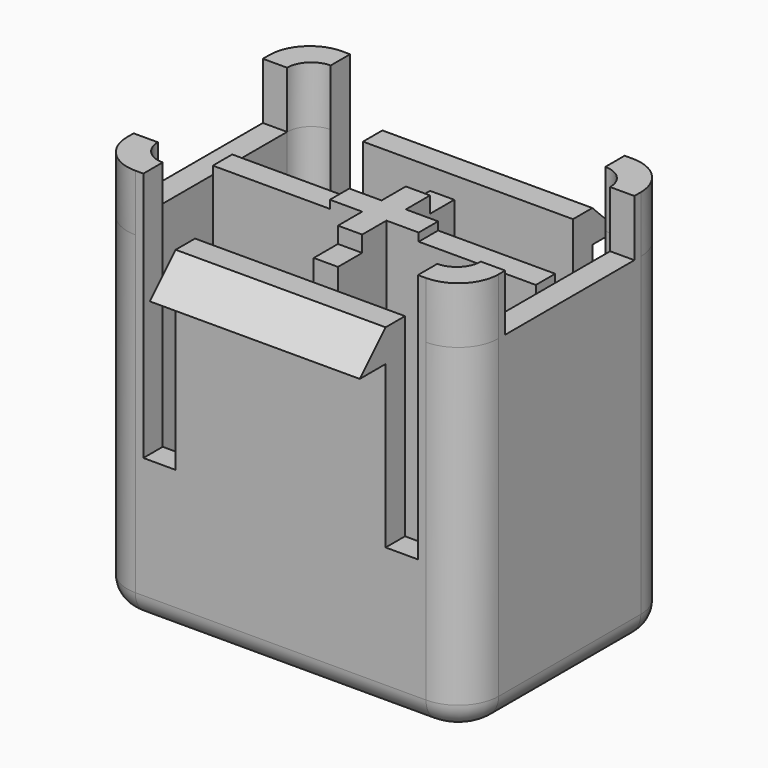
from build123d import *

# Parameters (mm, degrees)
F0_W      = 23
F0_H      = 16
F1_DEPTH  = 21
F2_R      = 2.5
F3_W      = 9.25
F3_H      = 5.75
F4_DEPTH  = 18
F5_R      = 1.5
F6_W      = 2
F6_H      = 12
F7_DEPTH  = 1.5
F8_W      = 2
F8_H      = 12
F9_DEPTH  = 1.5
F10_W     = 2
F10_H     = 12
F11_DEPTH = 1.5
F14_DEPTH = 3.5
F16_DEPTH = 1
F18_W     = 7.25
F18_H     = 1.5
F17_W     = 7.25
F17_H     = 1.5
F19_DEPTH = 0.5
F20_R     = 1.5
F21_DEPTH = 13


with BuildPart() as f1:
    # F0 (on Top) → F1 (new body)
    with BuildSketch(Plane.XY):
        Rectangle(F0_W, F0_H)
    extrude(amount=-F1_DEPTH)

    # F2
    f2_edges = [f1.edges().sort_by_distance(p)[0] for p in [
        (11.5, -8, -10.5),
        (11.5, 8, -10.5),
        (-11.5, -8, -10.5),
        (-11.5, 8, -10.5),
    ]]
    fillet(f2_edges, radius=F2_R)

    # F3 (on face) → F4 (cut)
    with BuildSketch(Plane.XY):
        with Locations((-5.375, 3.625)):
            Rectangle(F3_W, F3_H)
        with Locations((5.375, 3.625)):
            Rectangle(F3_W, F3_H)
        with Locations((5.375, -3.625)):
            Rectangle(F3_W, F3_H)
        with Locations((-5.375, -3.625)):
            Rectangle(F3_W, F3_H)
    extrude(amount=-F4_DEPTH, mode=Mode.SUBTRACT)

    # F5
    f5_edges = [f1.edges().sort_by_distance(p)[0] for p in [
        (-10, 6.5, -9),
        (-10, -6.5, -9),
        (10, -6.5, -9),
        (10, 6.5, -9),
    ]]
    fillet(f5_edges, radius=F5_R)

    # F6 (on face) → F7 (cut, through all)
    with BuildSketch(Plane.YZ.offset(0.75)):
        with Locations((-5.5, -6)):
            Rectangle(F6_W, F6_H)
        with Locations((5.5, -6)):
            Rectangle(F6_W, F6_H)
    extrude(amount=-F7_DEPTH, mode=Mode.SUBTRACT)

    # F8 (on face) + F7_face (on face) → F9 (cut, through all)
    with BuildSketch(Plane(origin=(0, 8, 0), x_dir=(-1, 0, 0), z_dir=(0, 1, 0))):
        with Locations((7.5, -6)):
            Rectangle(F8_W, F8_H)
        with Locations((-7.5, -6)):
            Rectangle(F8_W, F8_H)
    with BuildSketch(Plane(origin=(0, 6.5, -8.8181818182), x_dir=(1, 0, 0), z_dir=(0, -1, 0))):
        Polygon((8.5, 8.8181818182), (-8.5, 8.8181818182), (-8.5, -9.1818181818), (-0.75, -9.1818181818), (-0.75, -3.1818181818), (0.75, -3.1818181818), (0.75, -9.1818181818), (8.5, -9.1818181818), align=None)
    extrude(amount=-F9_DEPTH, dir=(0, 1, 0), mode=Mode.SUBTRACT)

    # F10 (on face) → F11 (cut, through all)
    with BuildSketch(Plane.XZ.offset(8)):
        with Locations((-7.5, -6)):
            Rectangle(F10_W, F10_H)
        with Locations((7.5, -6)):
            Rectangle(F10_W, F10_H)
    extrude(amount=-F11_DEPTH, mode=Mode.SUBTRACT)

    # F13 (on face) → F14 (join)
    with BuildSketch(Plane.XY):
        with BuildLine():
            Line((-11.5, 5), (-10, 5))
            ThreePointArc((-10, 5), (-9.5606601718, 6.0606601718), (-8.5, 6.5))
            Line((-8.5, 6.5), (-8.5, 8))
            Line((-8.5, 8), (-9, 8))
            ThreePointArc((-9, 8), (-10.767766953, 7.267766953), (-11.5, 5.5))
            Line((-11.5, 5.5), (-11.5, 5))
        make_face()
        with BuildLine():
            Line((-10, -5), (-11.5, -5))
            Line((-11.5, -5), (-11.5, -5.5))
            ThreePointArc((-11.5, -5.5), (-10.767766953, -7.267766953), (-9, -8))
            Line((-9, -8), (-8.5, -8))
            Line((-8.5, -8), (-8.5, -6.5))
            ThreePointArc((-8.5, -6.5), (-9.5606601718, -6.0606601718), (-10, -5))
        make_face()
        with BuildLine():
            Line((11.5, -5), (10, -5))
            ThreePointArc((10, -5), (9.5606601718, -6.0606601718), (8.5, -6.5))
            Line((8.5, -6.5), (8.5, -8))
            Line((8.5, -8), (9, -8))
            ThreePointArc((9, -8), (10.767766953, -7.267766953), (11.5, -5.5))
            Line((11.5, -5.5), (11.5, -5))
        make_face()
        with BuildLine():
            ThreePointArc((8.5, 6.5), (9.5606601718, 6.0606601718), (10, 5))
            Line((10, 5), (11.5, 5))
            Line((11.5, 5), (11.5, 5.5))
            ThreePointArc((11.5, 5.5), (10.767766953, 7.267766953), (9, 8))
            Line((9, 8), (8.5, 8))
            Line((8.5, 8), (8.5, 6.5))
        make_face()
    extrude(amount=F14_DEPTH)

    # F15 (on face) → F16 (join)
    with BuildSketch(Plane.XY):
        Polygon((-0.75, 0.75), (-2.75, 0.75), (-2.75, -0.75), (-0.75, -0.75), (-0.75, -2.625), (0.75, -2.625), (0.75, -0.75), (2.75, -0.75), (2.75, 0.75), (0.75, 0.75), (0.75, 2.625), (-0.75, 2.625), align=None)
    extrude(amount=F16_DEPTH)

    # F18 (on face) + F17 (on face) → F19 (join)
    with BuildSketch(Plane.XY):
        with Locations((-6.375, 0)):
            Rectangle(F18_W, F18_H)
    with BuildSketch(Plane.XY):
        with Locations((6.375, 0)):
            Rectangle(F17_W, F17_H)
    extrude(amount=F19_DEPTH)

    # F20
    f20_edges = [f1.edges().sort_by_distance(p)[0] for p in [
        (11.5, 0, -21),
        (10.767767, 7.267767, -21),
        (0, 8, -21),
        (-10.767767, 7.267767, -21),
        (-11.5, 0, -21),
        (-10.767767, -7.267767, -21),
        (0, -8, -21),
        (10.767767, -7.267767, -21),
    ]]
    fillet(f20_edges, radius=F20_R)

    # F12 (on face) → F21 (join, through all)
    with BuildSketch(Plane(origin=(-6.5, 0, 0), x_dir=(0, -1, 0), z_dir=(-1, 0, 0))):
        Polygon((-8, -2), (-8, 0), (-10, -2), align=None)
        Polygon((8, -2), (10, -2), (8, 0), align=None)
    extrude(amount=-F21_DEPTH)


solid = f1.part
